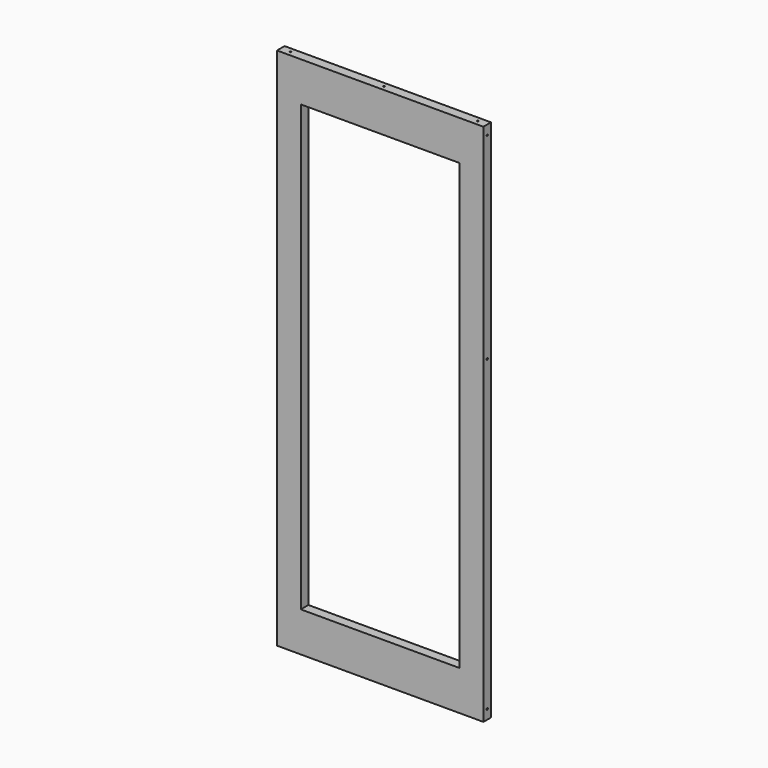
from build123d import *

# Parameters (mm, degrees)
F0_W      = 650
F0_H      = 1650
F0_W_2    = 500
F0_H_2    = 1400
F1_DEPTH  = 30
F5_D      = 5
F5_DEPTH  = 50
F5_TIP    = 1.5021515476
F7_D      = 5
F7_DEPTH  = 50
F7_TIP    = 1.5021515476
F10_D     = 5
F10_DEPTH = 15
F10_TIP   = 1.5021515476


with BuildPart() as f1:
    # F0 (on Front) → F1 (new body)
    with BuildSketch(Plane.XZ):
        Rectangle(F0_W, F0_H)
        Rectangle(F0_W_2, F0_H_2, mode=Mode.SUBTRACT)
    extrude(amount=F1_DEPTH)

    # F5
    with Locations(Plane(origin=(-325, 0, 0), x_dir=(0, -1, 0), z_dir=(-1, 0, 0))):
        with Locations((15, 795.0000119209), (15, 175.0000119209), (15, -794.9999880791)):
            Hole(F5_D / 2, depth=F5_DEPTH)
            with Locations((0, 0, -(F5_DEPTH + F5_TIP / 2))):  # 118° drill point
                Cone(0, F5_D / 2, F5_TIP, mode=Mode.SUBTRACT)

    # F7
    with Locations(Plane.YZ.offset(325)):
        with Locations((-14.9999763817, 795.000018446), (-14.9999763817, 175.000018446), (-14.9999763817, -794.999981554)):
            Hole(F7_D / 2, depth=F7_DEPTH)
            with Locations((0, 0, -(F7_DEPTH + F7_TIP / 2))):  # 118° drill point
                Cone(0, F7_D / 2, F7_TIP, mode=Mode.SUBTRACT)

    # F10
    with Locations(Plane.XY.offset(825)):
        with Locations((-295, -14.9999856949), (0, -15), (295, -15)):
            Hole(F10_D / 2, depth=F10_DEPTH)
            with Locations((0, 0, -(F10_DEPTH + F10_TIP / 2))):  # 118° drill point
                Cone(0, F10_D / 2, F10_TIP, mode=Mode.SUBTRACT)


solid = f1.part
